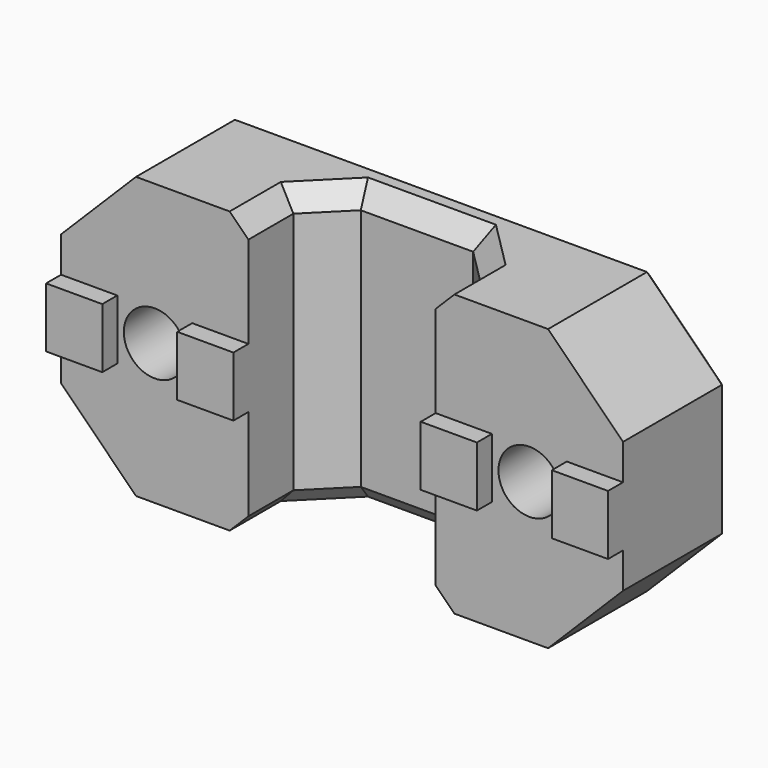
from build123d import *

# Parameters (mm, degrees)
PAD001_DEPTH                               = 15
SKETCH007_R                                = 1.65
POCKET005_DEPTH                            = 7.001
SKETCH008_R                                = 3.2
POCKET006_DEPTH                            = 3
CHAMFER004013007011015006009007001025_SIZE = 4
CHAMFER004013007011015006009007001026_SIZE = 0.4
CHAMFER004013007011015006009007001027_SIZE = 1
SKETCH009_W                                = 3
SKETCH009_H                                = 3.2
PAD002_DEPTH                               = 1


with BuildPart() as part:
    # Sketch006 → Pad001 (new body)
    with BuildSketch(Plane.XY):
        Polygon((-5, 0), (-5, 3), (-3, 5), (3, 5), (5, 3), (5, 0), (15, 0), (15, 5), (15, 7), (-15, 7), (-15, 6), (-15, 0), align=None)
    extrude(amount=PAD001_DEPTH)

    # Sketch007 (on Face12 of Pad001) → Pocket005 (cut, through all)
    with BuildSketch(Plane.XZ):
        with Locations((-10, 7.5)):
            Circle(SKETCH007_R)
        with Locations((10, 7.5)):
            Circle(SKETCH007_R)
    extrude(amount=-POCKET005_DEPTH, mode=Mode.SUBTRACT)

    # Sketch008 (on Face14 of Pocket005) → Pocket006 (cut)
    with BuildSketch(Plane(origin=(0, 7, 0), x_dir=(-1, 0, 0), z_dir=(0, 1, 0))):
        with Locations((-10, 7.5)):
            Circle(SKETCH008_R)
        with Locations((10, 7.5)):
            Circle(SKETCH008_R)
    extrude(amount=-POCKET006_DEPTH, mode=Mode.SUBTRACT)

    # Chamfer004013007011015006009007001025
    chamfer004013007011015006009007001025_edges = [part.edges().sort_by_distance(p)[0] for p in [
        (15, 2.5, 15),
        (15, 2.5, 0),
        (15, 6, 0),
        (15, 6, 15),
        (-15, 3, 15),
        (-15, 6.5, 15),
        (-15, 6.5, 0),
        (-15, 3, 0),
    ]]
    chamfer(chamfer004013007011015006009007001025_edges, length=CHAMFER004013007011015006009007001025_SIZE)

    # Chamfer004013007011015006009007001026
    chamfer004013007011015006009007001026_edges = [part.edges().sort_by_distance(p)[0] for p in [
        (-15, 7, 7.5),
        (-13, 7, 2),
        (-13, 7, 13),
        (0, 7, 0),
        (0, 7, 15),
        (13, 7, 2),
        (13, 7, 13),
        (15, 7, 7.5),
        (-6.8, 7, 7.5),
        (13.2, 7, 7.5),
    ]]
    chamfer(chamfer004013007011015006009007001026_edges, length=CHAMFER004013007011015006009007001026_SIZE)

    # Chamfer004013007011015006009007001027
    chamfer004013007011015006009007001027_edges = [part.edges().sort_by_distance(p)[0] for p in [
        (-5, 1.5, 15),
        (-4, 4, 15),
        (0, 5, 15),
        (4, 4, 15),
        (5, 1.5, 15),
        (-5, 1.5, 0),
        (-4, 4, 0),
        (0, 5, 0),
        (4, 4, 0),
        (5, 1.5, 0),
    ]]
    chamfer(chamfer004013007011015006009007001027_edges, length=CHAMFER004013007011015006009007001027_SIZE)

    # Sketch009 (on Face13 of Chamfer004013007011015006009007001027) → Pad002 (join)
    with BuildSketch(Plane.XZ):
        with Locations((-13.5, 7.5)):
            Rectangle(SKETCH009_W, SKETCH009_H)
        with Locations((-6.5, 7.5)):
            Rectangle(SKETCH009_W, SKETCH009_H)
        with Locations((6.5, 7.5)):
            Rectangle(SKETCH009_W, SKETCH009_H)
        with Locations((13.5, 7.5)):
            Rectangle(SKETCH009_W, SKETCH009_H)
    extrude(amount=PAD002_DEPTH)


solid = part.part
